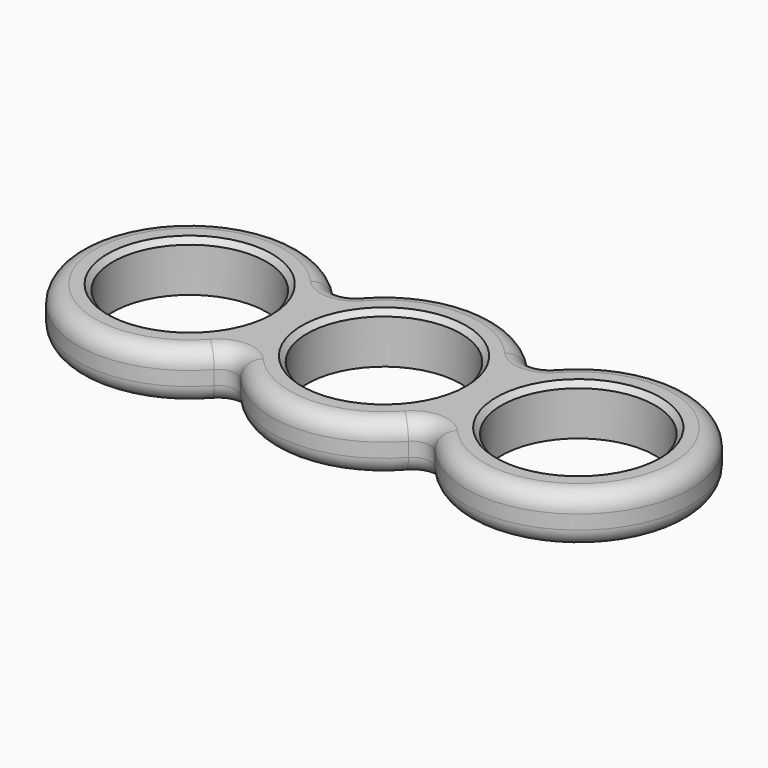
from build123d import *

# Parameters (mm, degrees)
F0_R     = 11.049
F1_DEPTH = 7.112
F2_R     = 2.54
F3_SIZE  = 0.762


with BuildPart() as f1:
    # F0 (on Top) → F1 (new body)
    with BuildSketch(Plane.XY):
        with BuildLine():
            ThreePointArc((-15.87068, -10.699353), (-13.97, -9.844291), (-12.06932, -10.699353))
            ThreePointArc((-12.06932, -10.699353), (0, -16.129), (12.06932, -10.699353))
            ThreePointArc((12.06932, -10.699353), (13.97, -9.844291), (15.87068, -10.699353))
            ThreePointArc((15.87068, -10.699353), (44.069, 0), (15.87068, 10.699353))
            ThreePointArc((15.87068, 10.699353), (13.97, 9.844291), (12.06932, 10.699353))
            ThreePointArc((12.06932, 10.699353), (0, 16.129), (-12.06932, 10.699353))
            ThreePointArc((-12.06932, 10.699353), (-13.97, 9.844291), (-15.87068, 10.699353))
            ThreePointArc((-15.87068, 10.699353), (-44.069, 0), (-15.87068, -10.699353))
        make_face()
        with Locations((-27.94, 0)):
            Circle(F0_R, mode=Mode.SUBTRACT)
        Circle(F0_R, mode=Mode.SUBTRACT)
        with Locations((27.94, 0)):
            Circle(F0_R, mode=Mode.SUBTRACT)
    extrude(amount=F1_DEPTH)

    # F2
    f2_edges = [f1.edges().sort_by_distance(p)[0] for p in [
        (44.069, 0, 7.112),
        (44.069, 0, 0),
    ]]
    fillet(f2_edges, radius=F2_R)

    # F3
    f3_edges = [f1.edges().sort_by_distance(p)[0] for p in [
        (-38.989, 0, 7.112),
        (-11.049, 0, 7.112),
        (16.891, 0, 7.112),
    ]]
    chamfer(f3_edges, length=F3_SIZE)


solid = f1.part
